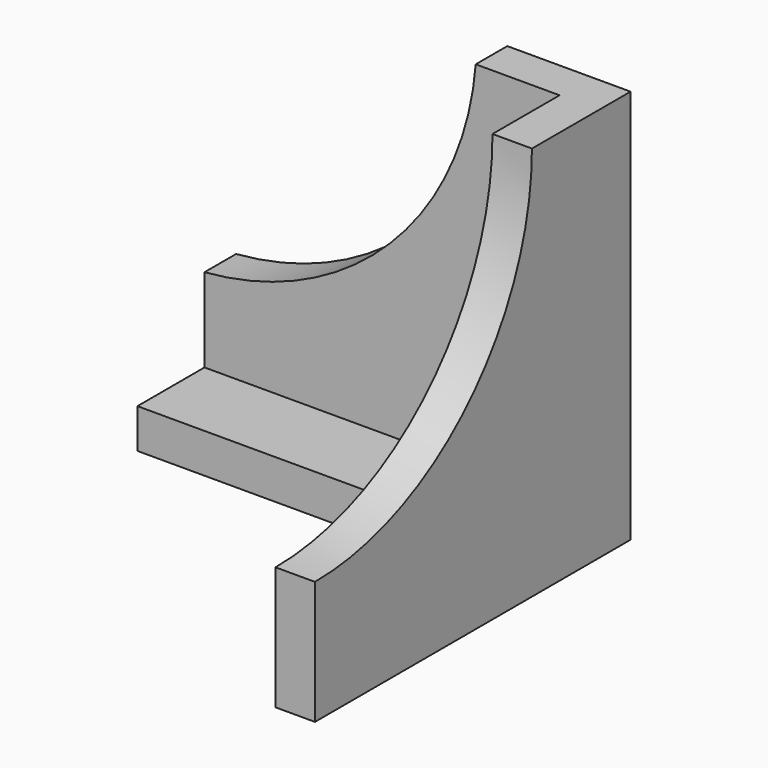
from build123d import *

# Parameters (mm, degrees)
F1_DEPTH = 25
F3_DEPTH = 8
F5_DEPTH = 8


with BuildPart() as f1:
    # F0 (on Front) → F1 (new body)
    with BuildSketch(Plane.XZ):
        Polygon((-40, -4), (40, -4), (40, 76), (32, 76), (32, 4), (-40, 4), align=None)
    extrude(amount=F1_DEPTH)

    # F2 (on face) → F3 (join)
    with BuildSketch(Plane(origin=(0, 0, 0), x_dir=(-1, 0, 0), z_dir=(0, 1, 0))):
        with BuildLine():
            Line((-32, 4), (40, 4))
            Line((40, 4), (40, 21))
            ThreePointArc((40, 21), (2.3807130871, 38.3807130871), (-15, 76))
            Line((-15, 76), (-32, 76))
            Line((-32, 76), (-32, 4))
        make_face()
    extrude(amount=-F3_DEPTH)

    # F4 (on face) → F5 (join)
    with BuildSketch(Plane.YZ.offset(40)):
        with BuildLine():
            Line((-80, -4), (-25, -4))
            Line((-25, -4), (-25, 76))
            ThreePointArc((-25, 76), (-41.1091270347, 37.1091270347), (-80, 21))
            Line((-80, 21), (-80, -4))
        make_face()
    extrude(amount=-F5_DEPTH)


solid = f1.part
